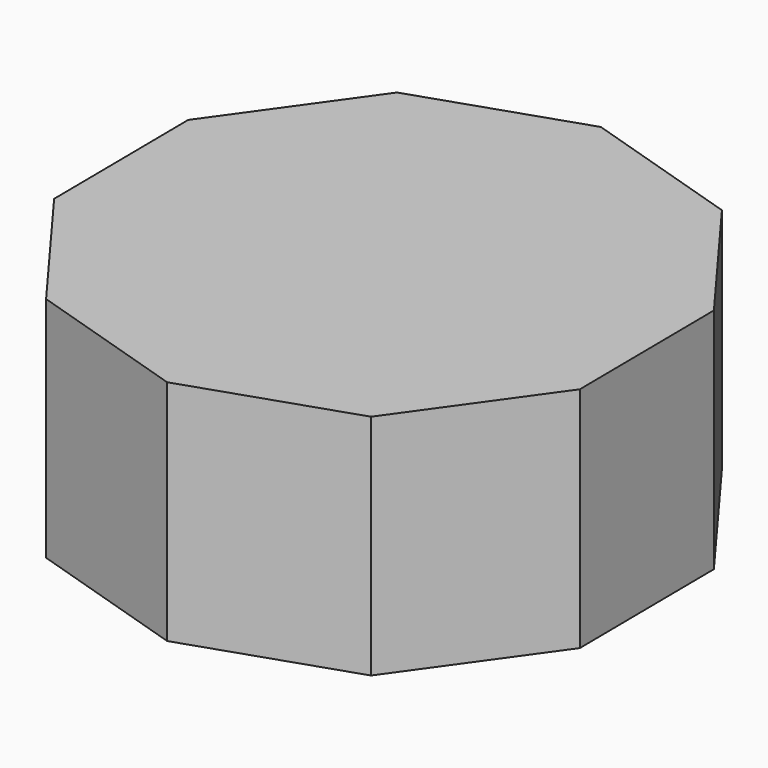
from build123d import *

# Parameters (mm, degrees)
F1_DEPTH = 7.62
F2_DEPTH = 25.4


with BuildPart() as f1:
    # F0 (on Top) → F1 (new body)
    with BuildSketch(Plane.XY):
        Polygon((-0.374511, 39.758102), (-23.672212, 31.944848), (-37.927932, 11.929748), (-37.696471, -12.64211), (-23.06624, -32.385112), (0.374511, -39.758102), (23.672212, -31.944848), (37.927932, -11.929748), (37.696471, 12.64211), (23.06624, 32.385112), align=None)
    extrude(amount=F1_DEPTH)

    # F1_face (on face) → F2 (join)
    with BuildSketch(Plane.XY.offset(7.62)):
        Polygon((23.06624, 32.385112), (-0.374511, 39.758102), (-23.672212, 31.944848), (-37.927932, 11.929748), (-37.696471, -12.64211), (-23.06624, -32.385112), (0.374511, -39.758102), (23.672212, -31.944848), (37.927932, -11.929748), (37.696471, 12.64211), align=None)
    extrude(amount=F2_DEPTH)


solid = f1.part
